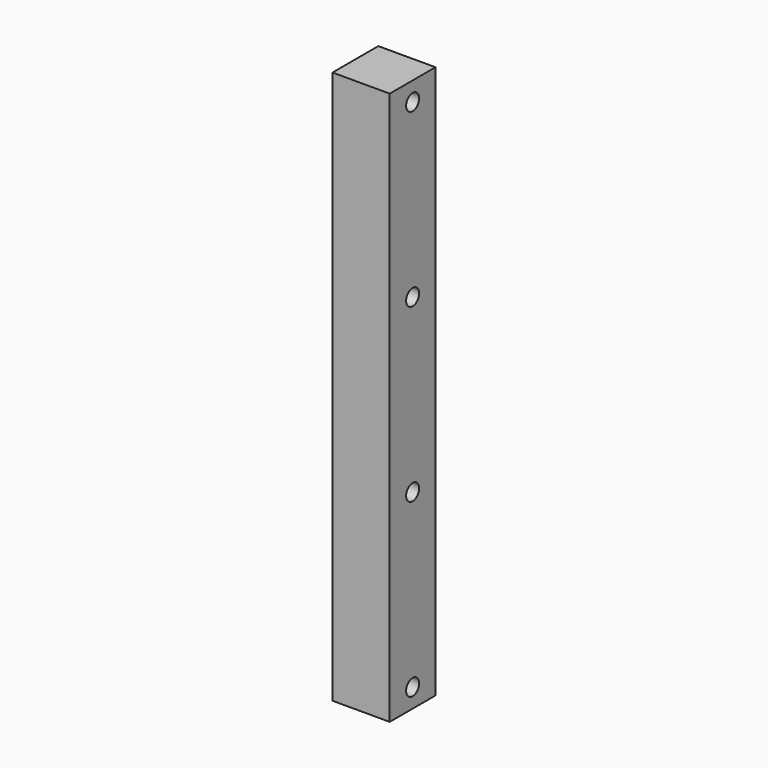
from build123d import *

# Parameters (mm, degrees)
F0_W     = 30
F0_H     = 30
F1_DEPTH = 290
F2_R     = 4.25
F3_DEPTH = 30


with BuildPart() as f1:
    # F0 (on Top) → F1 (new body)
    with BuildSketch(Plane.XY):
        Rectangle(F0_W, F0_H)
    extrude(amount=F1_DEPTH)

    # F2 (on face) → F3 (cut, through all)
    with BuildSketch(Plane(origin=(-15, 0, 0), x_dir=(0, -1, 0), z_dir=(-1, 0, 0))):
        with Locations((0, 280)):
            Circle(F2_R)
        with Locations((0, 190)):
            Circle(F2_R)
        with Locations((0, 100)):
            Circle(F2_R)
        with Locations((0, 10)):
            Circle(F2_R)
    extrude(amount=-F3_DEPTH, mode=Mode.SUBTRACT)


solid = f1.part
